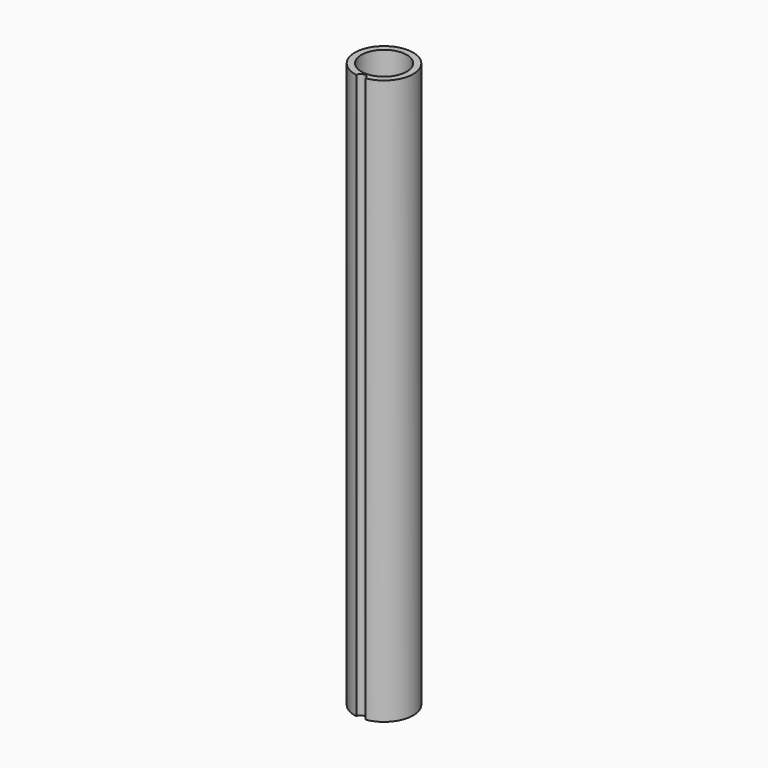
from build123d import *

# Parameters (mm, degrees)
F0_R     = 9.3
F0_R_2   = 7.25
F1_DEPTH = 180
F3_DEPTH = 180.001


with BuildPart() as f1:
    # F0 (on Top) → F1 (new body)
    with BuildSketch(Plane.XY):
        with Locations((0, -0.0496306275)):
            Circle(F0_R)
        Circle(F0_R_2, mode=Mode.SUBTRACT)
    extrude(amount=F1_DEPTH)

    # F2 (on face) → F3 (cut, through all)
    with BuildSketch(Plane.XY.offset(180)):
        with BuildLine():
            ThreePointArc((-1.4951143118, -9.2286628855), (0, -9.3496306275), (1.4951143118, -9.2286628855))
            ThreePointArc((1.4951143118, -9.2286628855), (0, -7.8496306275), (-1.4951143118, -9.2286628855))
        make_face()
    extrude(amount=-F3_DEPTH, mode=Mode.SUBTRACT)


solid = f1.part
